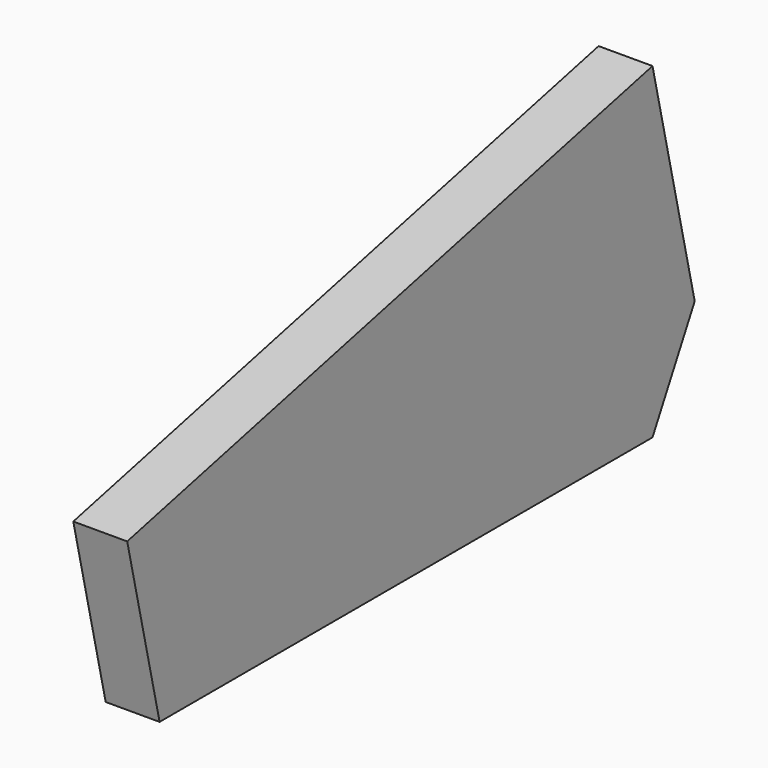
from build123d import *

# Parameters (mm, degrees)
PAD_DEPTH = 14


with BuildPart() as part:
    # Sketch → Pad (new body)
    with BuildSketch(Plane.YZ):
        Polygon((-3.973484, -71.060068), (156.026516, -71.060068), (169.729077, -45.501511), (156.026516, 13.850802), (-14.488245, -25.515633), align=None)
    extrude(amount=PAD_DEPTH)


solid = part.part
